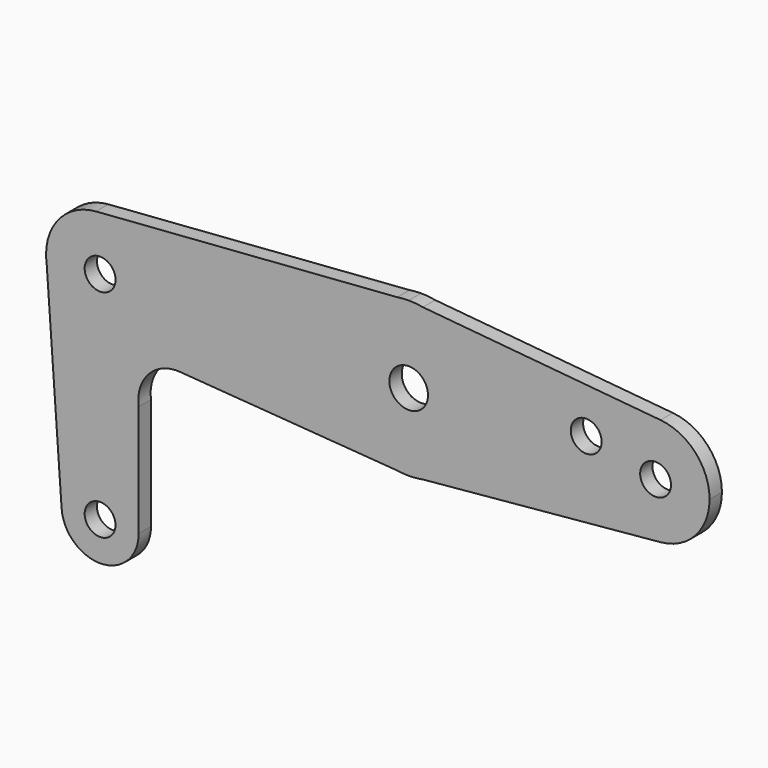
from build123d import *

# Parameters (mm, degrees)
F0_R     = 3.9751
F0_R_2   = 3.175
F1_DEPTH = 3.175


with BuildPart() as f1:
    # F0 (on Front) → F1 (new body)
    with BuildSketch(Plane.XZ):
        with BuildLine():
            ThreePointArc((2.9215490166, -15.6038513305), (12.2146472655, -10.1399219514), (15.875, 0))
            ThreePointArc((15.875, 0), (12.2146472655, 10.1399219514), (2.9215490166, 15.6038513305))
            Line((2.9215490166, 15.6038513305), (0, 15.875))
            Line((0, 15.875), (-2.3527821949, 15.6996828294))
            ThreePointArc((-2.3527821949, 15.6996828294), (-15.875, 0), (-2.3527821949, -15.6996828294))
            Line((-2.3527821949, -15.6996828294), (0, -15.875))
            Line((0, -15.875), (2.9215490166, -15.6038513305))
        make_face()
        Circle(F0_R, mode=Mode.SUBTRACT)
        with BuildLine():
            ThreePointArc((2.9215490166, 15.6038513305), (12.2146472655, 10.1399219514), (15.875, 0))
            ThreePointArc((15.875, 0), (12.2146472655, -10.1399219514), (2.9215490166, -15.6038513305))
            Line((2.9215490166, -15.6038513305), (51.8269366371, -11.0649472386))
            ThreePointArc((51.8269366371, -11.0649472386), (39.6875, 0), (51.8269366371, 11.0649472386))
            Line((51.8269366371, 11.0649472386), (2.9215490166, 15.6038513305))
        make_face()
        with Locations((36.5252, 3.175)):
            Circle(F0_R_2, mode=Mode.SUBTRACT)
        with BuildLine():
            Line((0, 15.875), (2.9215490166, 15.6038513305))
            ThreePointArc((2.9215490166, 15.6038513305), (1.4670523387, 15.8070674837), (0, 15.875))
        make_face()
        with BuildLine():
            ThreePointArc((0, -15.875), (1.4670523387, -15.8070674837), (2.9215490166, -15.6038513305))
            Line((2.9215490166, -15.6038513305), (0, -15.875))
        make_face()
        with BuildLine():
            Line((-2.3527821949, 15.6996828294), (0, 15.875))
            ThreePointArc((0, 15.875), (-1.1796525089, 15.8311100356), (-2.3527821949, 15.6996828294))
        make_face()
        with BuildLine():
            ThreePointArc((61.9125, 0), (59.0127793599, 7.4858474093), (51.8269366371, 11.0649472386))
            ThreePointArc((51.8269366371, 11.0649472386), (39.6875, 0), (51.8269366371, -11.0649472386))
            ThreePointArc((51.8269366371, -11.0649472386), (59.0127793599, -7.4858474093), (61.9125, 0))
        make_face()
        with Locations((50.8, 0)):
            Circle(F0_R_2, mode=Mode.SUBTRACT)
        with BuildLine():
            ThreePointArc((-2.3527821949, -15.6996828294), (-1.1796525089, -15.8311100356), (0, -15.875))
            Line((0, -15.875), (-2.3527821949, -15.6996828294))
        make_face()
        with BuildLine():
            ThreePointArc((-2.3527821949, -15.6996828294), (-15.875, 0), (-2.3527821949, 15.6996828294))
            Line((-2.3527821949, 15.6996828294), (-64.3257567562, 11.0817770249))
            ThreePointArc((-64.3257567562, 11.0817770249), (-55.9398599783, 8.1444422216), (-52.3875, 0))
            ThreePointArc((-52.3875, 0), (-62.7132218511, -11.0846125956), (-74.5010903522, -1.5696073753))
            Line((-74.5010903522, -1.5696073753), (-71.4175804254, -45.0119843921))
            ThreePointArc((-71.4175804254, -45.0119843921), (-63.7811686533, -36.5174814568), (-55.5625, -44.45))
            Line((-55.5625, -44.45), (-55.5625, -21.4296542108))
            ThreePointArc((-55.5625, -21.4296542108), (-53.5062463335, -14.8690750057), (-47.1031557359, -12.3651162511))
            Line((-47.1031557359, -12.3651162511), (-2.3527821949, -15.6996828294))
        make_face()
        with BuildLine():
            ThreePointArc((-52.3875, 0), (-55.9398599783, 8.1444422216), (-64.3257567562, 11.0817770249))
            ThreePointArc((-64.3257567562, 11.0817770249), (-71.6444422216, 7.5601400217), (-74.6125, 0))
            Line((-74.6125, 0), (-74.5010903522, -1.5696073753))
            ThreePointArc((-74.5010903522, -1.5696073753), (-62.7132218511, -11.0846125956), (-52.3875, 0))
        make_face()
        with Locations((-63.5, 0)):
            Circle(F0_R_2, mode=Mode.SUBTRACT)
        with BuildLine():
            Line((-74.5010903522, -1.5696073753), (-74.6125, 0))
            ThreePointArc((-74.6125, 0), (-74.5846125956, -0.7867781489), (-74.5010903522, -1.5696073753))
        make_face()
        with BuildLine():
            ThreePointArc((-71.4175804254, -45.0119843921), (-63.2188313467, -52.3825185432), (-55.5625, -44.45))
            ThreePointArc((-55.5625, -44.45), (-63.7811686533, -36.5174814568), (-71.4175804254, -45.0119843921))
        make_face()
        with Locations((-63.5, -44.45)):
            Circle(F0_R_2, mode=Mode.SUBTRACT)
    extrude(amount=F1_DEPTH)


solid = f1.part
